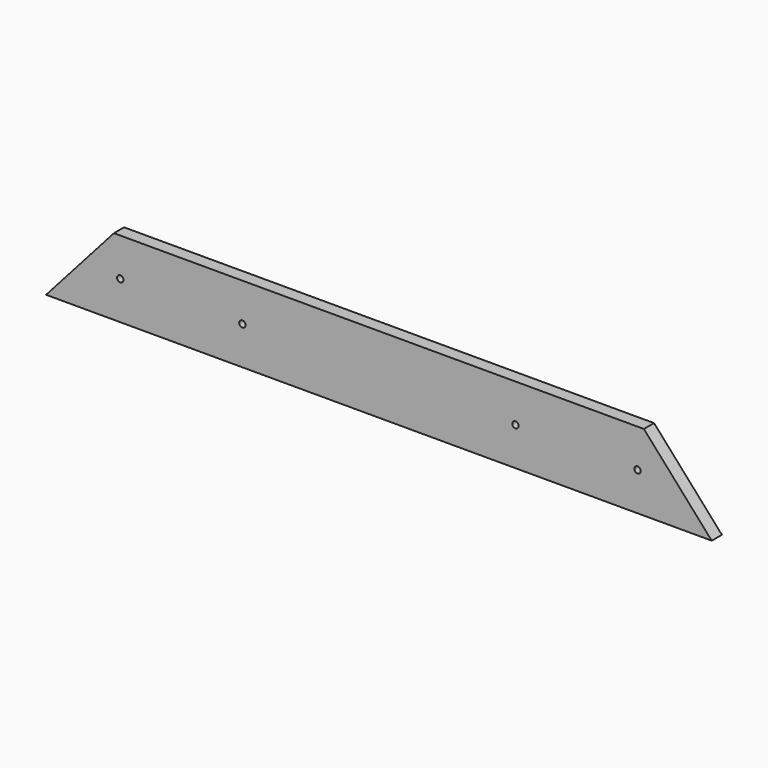
from build123d import *

# Parameters (mm, degrees)
F1_DEPTH = 9.525
F2_DEPTH = 9.525
F3_D     = 4.7625
F4_D     = 4.7625
F5_D     = 4.7625
F6_D     = 4.7625


with BuildPart() as f1:
    # F0 (on Front) → F1 (new body)
    with BuildSketch(Plane.XZ):
        Polygon((211.2021158695, -16.6006076694), (-185.6728841305, -16.6006076694), (-236.4728841305, -73.7506076694), (-185.6728841305, -73.7506076694), (-93.5978841305, -73.7506076694), (119.1271158695, -73.7506076694), (211.2021158695, -73.7506076694), (262.0021158695, -73.7506076694), align=None)
    extrude(amount=F1_DEPTH)

    # F0 (on Front) → F2 (join)
    with BuildSketch(Plane.XZ):
        Polygon((211.2021158695, -16.6006076694), (-185.6728841305, -16.6006076694), (-236.4728841305, -73.7506076694), (-185.6728841305, -73.7506076694), (-93.5978841305, -73.7506076694), (119.1271158695, -73.7506076694), (211.2021158695, -73.7506076694), (262.0021158695, -73.7506076694), align=None)
    extrude(amount=F2_DEPTH)

    # F3 (through all)
    with Locations(Plane(origin=(0, 0, 0), x_dir=(1, 0, 0), z_dir=(0, 1, 0))):
        with Locations((114.9996158695, 45.1756076694)):
            Hole(F3_D / 2)

    # F4 (through all)
    with Locations(Plane(origin=(0, 0, 0), x_dir=(1, 0, 0), z_dir=(0, 1, 0))):
        with Locations((-89.4703841305, 45.1756076694)):
            Hole(F4_D / 2)

    # F5 (through all)
    with Locations(Plane(origin=(0, 0, 0), x_dir=(1, 0, 0), z_dir=(0, 1, 0))):
        with Locations((206.4396158695, 45.1756076694)):
            Hole(F5_D / 2)

    # F6 (through all)
    with Locations(Plane(origin=(0, 0, 0), x_dir=(1, 0, 0), z_dir=(0, 1, 0))):
        with Locations((-180.9103841305, 45.1756076694)):
            Hole(F6_D / 2)


solid = f1.part
